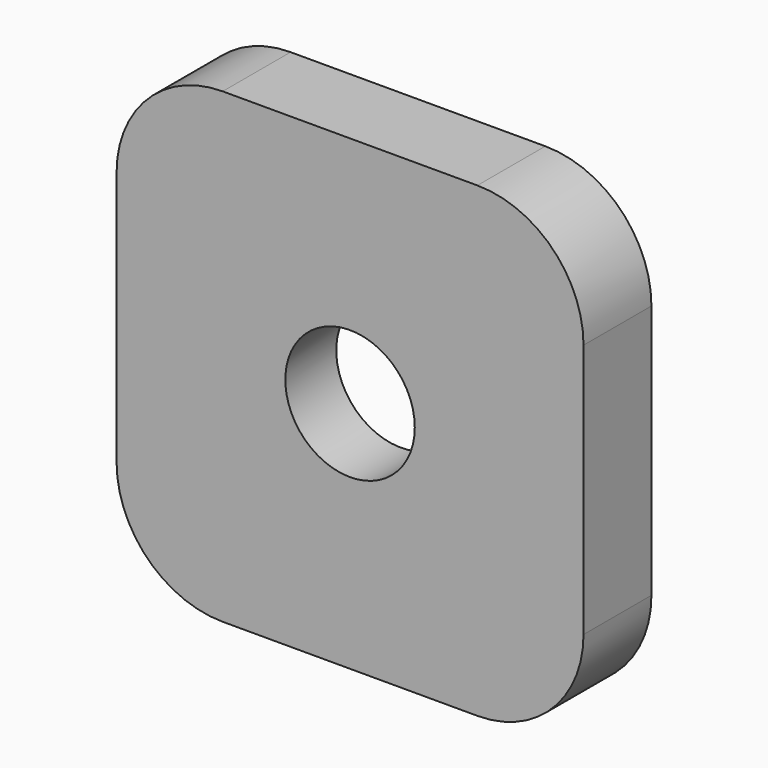
from build123d import *

# Parameters (mm, degrees)
PAD008_DEPTH    = 4
SKETCH032_R     = 3.05
POCKET_DEPTH    = 3.2
SKETCH033_R     = 5
POCKET001_DEPTH = 1


with BuildPart() as part:
    # Sketch013 → Pad008 (new body)
    with BuildSketch(Plane(origin=(0, 0, 0), x_dir=(-1, 0, 0), z_dir=(0, 1, 0))):
        with BuildLine():
            Line((-6, 11), (6, 11))
            ThreePointArc((11, 6), (9.535534, 9.535534), (6, 11))
            Line((11, 6), (11, -6))
            ThreePointArc((6, -11), (9.535534, -9.535534), (11, -6))
            Line((6, -11), (-6, -11))
            ThreePointArc((-11, -6), (-9.535534, -9.535534), (-6, -11))
            Line((-11, -6), (-11, 6))
            ThreePointArc((-6, 11), (-9.535534, 9.535534), (-11, 6))
        make_face()
    extrude(amount=PAD008_DEPTH)

    # Sketch032 → Pocket (cut)
    with BuildSketch(Plane.XZ):
        Circle(SKETCH032_R)
    extrude(amount=-POCKET_DEPTH, mode=Mode.SUBTRACT)

    # Sketch033 (on Face5 of Pocket) → Pocket001 (cut)
    with BuildSketch(Plane(origin=(0, 4, 0), x_dir=(1, 0, 0), z_dir=(0, 1, 0))):
        Circle(SKETCH033_R)
    extrude(amount=-POCKET001_DEPTH, mode=Mode.SUBTRACT)


with BuildPart() as part_1:
    # Body013 placement: moved
    add(part.part.moved(Location((0, 110, 0))))


solid = part_1.part
